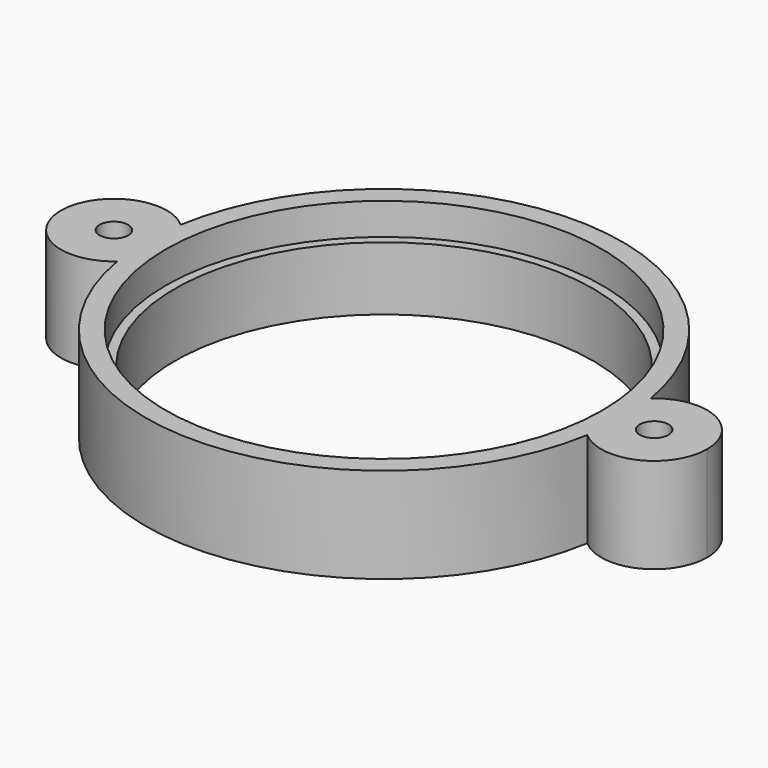
from build123d import *

# Parameters (mm, degrees)
F0_R     = 1.35
F1_DEPTH = 9
F0_R_2   = 19.75
F2_DEPTH = 6
F3_R     = 22.5
F3_R_2   = 20.6
F4_DEPTH = 3


with BuildPart() as f1:
    # F0 (on Top) → F1 (new body)
    with BuildSketch(Plane.XY):
        with BuildLine():
            ThreePointArc((-22.1862745098, -3.7442253372), (-22.5, 0), (-22.1862745098, 3.7442253372))
            ThreePointArc((-22.1862745098, 3.7442253372), (-30.5, 0), (-22.1862745098, -3.7442253372))
        make_face()
        with Locations((-25.5, 0)):
            Circle(F0_R, mode=Mode.SUBTRACT)
    extrude(amount=F1_DEPTH)



with BuildPart() as f1b:
    # F0 (on Top) → F1, piece 2 (new body)
    with BuildSketch(Plane.XY):
        with BuildLine():
            ThreePointArc((22.1862745098, 3.7442253372), (22.4214314493, 1.8786728733), (22.5, 0))
            ThreePointArc((22.5, 0), (22.4214314493, -1.8786728733), (22.1862745098, -3.7442253372))
            ThreePointArc((22.1862745098, -3.7442253372), (27.5532136456, -4.5589816544), (30.5, 0))
            ThreePointArc((30.5, 0), (27.5532136456, 4.5589816544), (22.1862745098, 3.7442253372))
        make_face()
        with Locations((25.5, 0)):
            Circle(F0_R, mode=Mode.SUBTRACT)
    extrude(amount=F1_DEPTH)


with BuildPart() as f2:
    # F0 (on Top) → F2 (new body)
    with BuildSketch(Plane.XY):
        with BuildLine():
            ThreePointArc((22.1862745098, -3.7442253372), (20.5, 0), (22.1862745098, 3.7442253372))
            ThreePointArc((22.1862745098, 3.7442253372), (0, 22.5), (-22.1862745098, 3.7442253372))
            ThreePointArc((-22.1862745098, 3.7442253372), (-20.9410183456, 2.0532136456), (-20.5, 0))
            ThreePointArc((-20.5, 0), (-20.9410183456, -2.0532136456), (-22.1862745098, -3.7442253372))
            ThreePointArc((-22.1862745098, -3.7442253372), (0, -22.5), (22.1862745098, -3.7442253372))
        make_face()
        Circle(F0_R_2, mode=Mode.SUBTRACT)
        with BuildLine():
            ThreePointArc((22.1862745098, -3.7442253372), (22.4214314493, -1.8786728733), (22.5, 0))
            ThreePointArc((22.5, 0), (22.4214314493, 1.8786728733), (22.1862745098, 3.7442253372))
            ThreePointArc((22.1862745098, 3.7442253372), (20.5, 0), (22.1862745098, -3.7442253372))
        make_face()
        with BuildLine():
            ThreePointArc((-20.5, 0), (-20.9410183456, 2.0532136456), (-22.1862745098, 3.7442253372))
            ThreePointArc((-22.1862745098, 3.7442253372), (-22.5, 0), (-22.1862745098, -3.7442253372))
            ThreePointArc((-22.1862745098, -3.7442253372), (-20.9410183456, -2.0532136456), (-20.5, 0))
        make_face()
    extrude(amount=F2_DEPTH)


with BuildPart() as f1_1:
    add(f1.part)

    add(f1b.part)  # F4 merges F1b

    add(f2.part)  # F4 merges F2
    # F3 (on face) → F4 (join)
    with BuildSketch(Plane.XY.offset(6)):
        Circle(F3_R)
        Circle(F3_R_2, mode=Mode.SUBTRACT)
    extrude(amount=F4_DEPTH)


solid = f1_1.part
